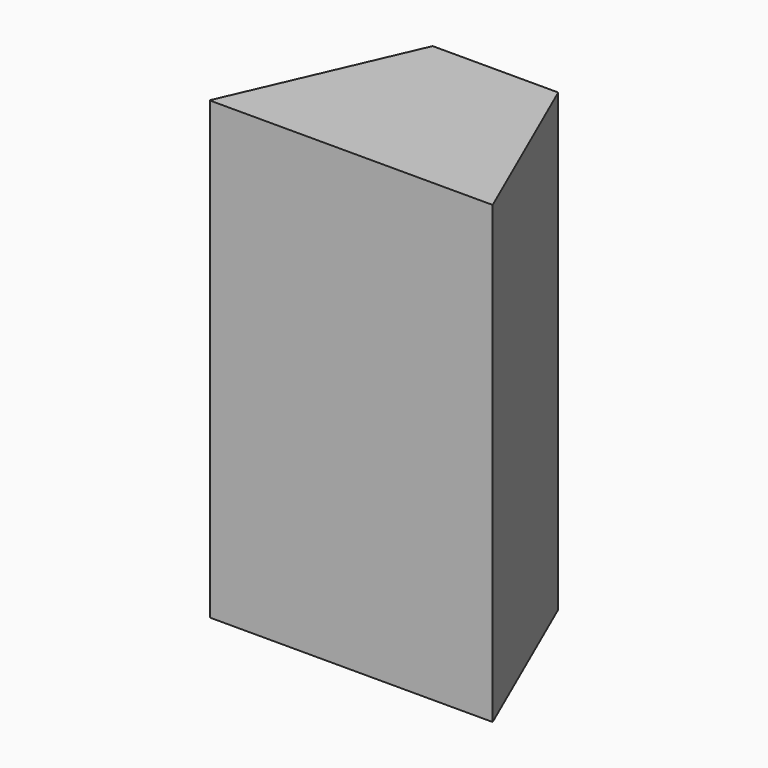
from build123d import *

# Parameters (mm, degrees)
BOX025_W           = 3.6
BOX025_H           = 2.3
BOX025_DEPTH       = 5.8
CHAMFER029_1_SIZE2 = 1
CHAMFER029_1_SIZE  = 2.29
CHAMFER029_2_SIZE2 = 1
CHAMFER029_2_SIZE  = 2.29


with BuildPart() as part:
    # Box025 → Box025 (new body)
    with BuildSketch(Plane(origin=(53.2, 17.7, 24.2), x_dir=(1, 0, 0), z_dir=(0, 0, 1))):
        with Locations((1.8, 1.15)):
            Rectangle(BOX025_W, BOX025_H)
    extrude(amount=BOX025_DEPTH)

    # Chamfer029 1
    chamfer029_1_edges = [part.edges().sort_by_distance(p)[0] for p in [
        (56.8, 20, 27.1),
    ]]
    chamfer029_1_side = part.faces().sort_by_distance((56.8, 18.85, 27.1))[0]
    chamfer(chamfer029_1_edges, length=CHAMFER029_1_SIZE, length2=CHAMFER029_1_SIZE2, reference=chamfer029_1_side)

    # Chamfer029 2
    chamfer029_2_edges = [part.edges().sort_by_distance(p)[0] for p in [
        (53.2, 20, 27.1),
    ]]
    chamfer029_2_side = part.faces().sort_by_distance((53.2, 18.85, 27.1))[0]
    chamfer(chamfer029_2_edges, length=CHAMFER029_2_SIZE, length2=CHAMFER029_2_SIZE2, reference=chamfer029_2_side)


solid = part.part
